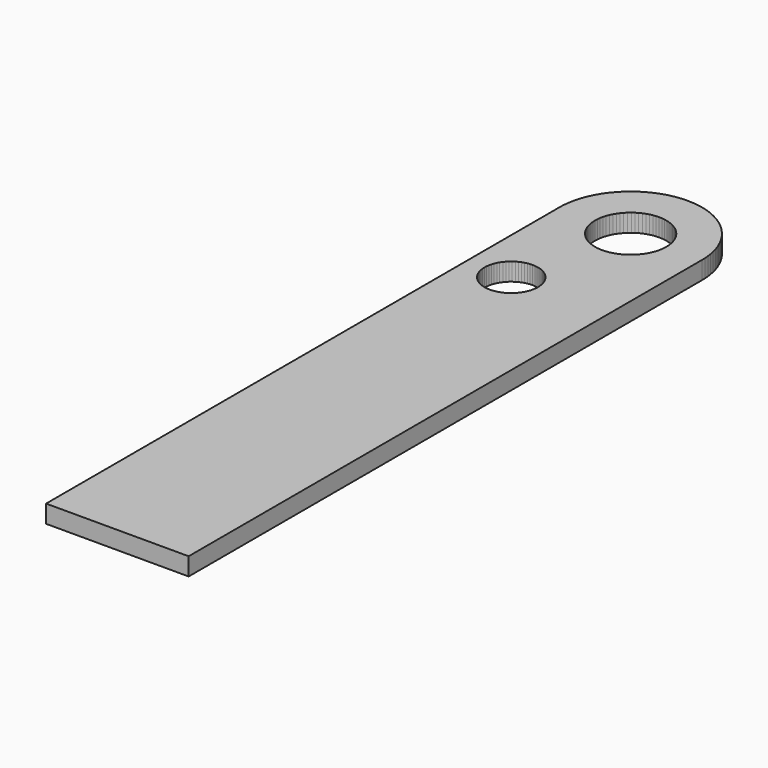
from build123d import *

# Parameters (mm, degrees)
F1_DEPTH = 6.35


with BuildPart() as f1:
    # F0 (on Top) → F1 (new body)
    with BuildSketch(Plane.XY):
        Polygon((25.4, -127), (25.4, 101.6), (25.357658, 103.081633), (25.230658, 104.542158), (25.019, 106.002658), (24.722658, 107.463158), (24.341658, 108.881342), (23.876, 110.2995), (23.325658, 111.654158), (22.690658, 113.008816), (21.992158, 114.3), (21.230158, 115.569975), (20.3835, 116.7765), (19.452158, 117.9195), (18.4785, 119.041342), (17.441316, 120.0785), (16.3195, 121.052158), (15.1765, 121.9835), (13.948842, 122.830184), (12.7, 123.592158), (11.408842, 124.290633), (10.054158, 124.925658), (8.678342, 125.476), (7.281342, 125.941658), (5.863158, 126.322633), (4.402684, 126.619), (2.942158, 126.830658), (1.481658, 126.957658), (0, 127), (-1.481658, 126.957658), (-2.942158, 126.830658), (-4.402658, 126.619), (-5.863184, 126.322633), (-7.281316, 125.941658), (-8.678342, 125.476), (-10.054184, 124.925658), (-11.408816, 124.290633), (-12.7, 123.592158), (-13.948842, 122.830184), (-15.1765, 121.9835), (-16.3195, 121.052158), (-17.420184, 120.0785), (-18.4785, 119.041342), (-19.452158, 117.9195), (-20.3835, 116.7765), (-21.230184, 115.569975), (-21.992158, 114.3), (-22.690684, 113.008816), (-23.325684, 111.654158), (-23.876, 110.2995), (-24.341684, 108.881342), (-24.722658, 107.463158), (-25.019, 106.002658), (-25.230658, 104.542158), (-25.357684, 103.081633), (-25.4, 101.6), (-25.4, -127), align=None)
        Polygon((-8.636, 50.842316), (-9.525, 50.8), (-10.392816, 50.842316), (-11.281842, 50.969316), (-12.1285, 51.159842), (-12.975158, 51.435), (-13.7795, 51.794816), (-14.5415, 52.239316), (-15.261158, 52.726158), (-15.9385, 53.297633), (-16.5735, 53.911475), (-17.123842, 54.588816), (-17.631842, 55.3085), (-18.055184, 56.091658), (-18.415, 56.896), (-18.690158, 57.7215), (-18.880658, 58.568158), (-19.007684, 59.457184), (-19.05, 60.325), (-19.007684, 61.214), (-18.880658, 62.081816), (-18.690158, 62.9285), (-18.415, 63.775158), (-18.055184, 64.579525), (-17.631842, 65.341475), (-17.123842, 66.061158), (-16.5735, 66.7385), (-15.9385, 67.373475), (-15.261158, 67.923842), (-14.5415, 68.431816), (-13.7795, 68.855184), (-12.975158, 69.214975), (-12.1285, 69.490158), (-11.281842, 69.680658), (-10.392816, 69.807658), (-9.525, 69.85), (-8.636, 69.807658), (-7.768158, 69.680658), (-6.9215, 69.490158), (-6.074842, 69.214975), (-5.2705, 68.855184), (-4.5085, 68.431816), (-3.788842, 67.923842), (-3.1115, 67.373475), (-2.4765, 66.7385), (-1.926158, 66.061158), (-1.418158, 65.341475), (-0.994842, 64.579525), (-0.635, 63.775158), (-0.359816, 62.9285), (-0.169342, 62.081816), (-0.042342, 61.214), (0, 60.325), (-0.042342, 59.457184), (-0.169342, 58.568158), (-0.359816, 57.7215), (-0.635, 56.896), (-0.994842, 56.091658), (-1.418158, 55.3085), (-1.926158, 54.588816), (-2.4765, 53.911475), (-3.1115, 53.297633), (-3.788842, 52.726158), (-4.5085, 52.239316), (-5.2705, 51.794816), (-6.074842, 51.435), (-6.9215, 51.159842), (-7.768158, 50.969316), align=None, mode=Mode.SUBTRACT)
        Polygon((1.058316, 88.942316), (0, 88.9), (-1.058342, 88.942316), (-2.0955, 89.069316), (-3.1115, 89.280975), (-4.1275, 89.598475), (-5.101158, 89.979525), (-6.053658, 90.423975), (-6.942684, 90.974316), (-7.789316, 91.588158), (-8.593658, 92.2655), (-9.3345, 93.006342), (-10.011842, 93.810684), (-10.625684, 94.657316), (-11.176, 95.5675), (-11.6205, 96.498842), (-12.0015, 97.4725), (-12.319, 98.4885), (-12.530658, 99.504525), (-12.657684, 100.562842), (-12.7, 101.6), (-12.657684, 102.658316), (-12.530658, 103.695525), (-12.319, 104.711475), (-12.0015, 105.727475), (-11.6205, 106.701158), (-11.176, 107.653684), (-10.625684, 108.542684), (-10.011842, 109.4105), (-9.3345, 110.193658), (-8.593658, 110.955658), (-7.789316, 111.633025), (-6.942684, 112.225658), (-6.053658, 112.776), (-5.101158, 113.241658), (-4.1275, 113.622633), (-3.1115, 113.919), (-2.0955, 114.130658), (-1.058342, 114.257658), (0, 114.3), (1.058316, 114.257658), (2.0955, 114.130658), (3.1115, 113.919), (4.1275, 113.622633), (5.101158, 113.241658), (6.053684, 112.776), (6.942658, 112.225658), (7.8105, 111.633025), (8.593684, 110.955658), (9.3345, 110.193658), (10.033, 109.4105), (10.625658, 108.542684), (11.176, 107.653684), (11.6205, 106.701158), (12.022658, 105.727475), (12.319, 104.711475), (12.530658, 103.695525), (12.657658, 102.658316), (12.7, 101.6), (12.657658, 100.562842), (12.530658, 99.504525), (12.319, 98.4885), (12.022658, 97.4725), (11.6205, 96.498842), (11.176, 95.5675), (10.625658, 94.657316), (10.033, 93.810684), (9.3345, 93.006342), (8.593684, 92.2655), (7.8105, 91.588158), (6.942658, 90.974316), (6.053684, 90.423975), (5.101158, 89.979525), (4.1275, 89.598475), (3.1115, 89.280975), (2.0955, 89.069316), align=None, mode=Mode.SUBTRACT)
    extrude(amount=F1_DEPTH)


solid = f1.part
